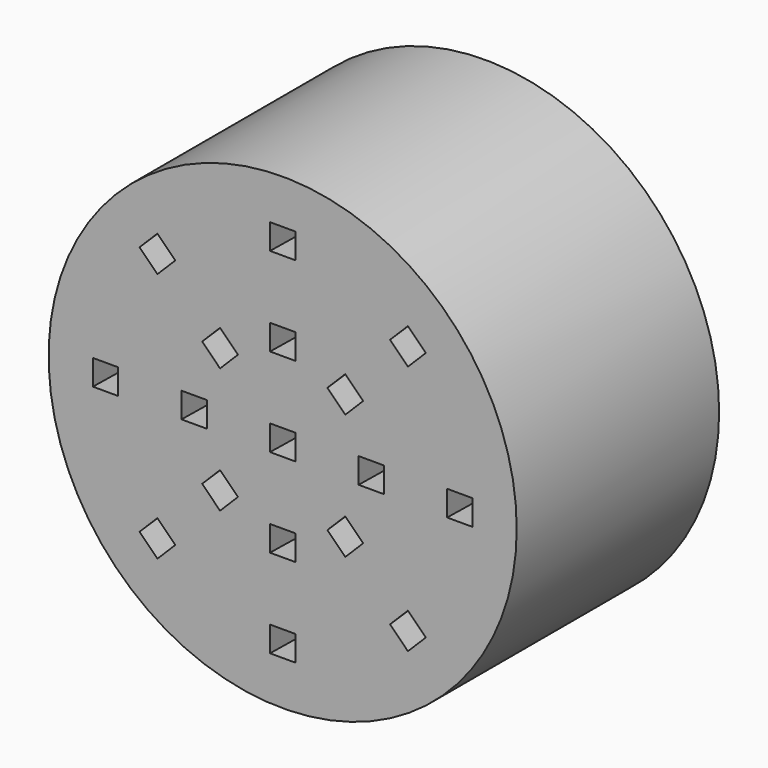
from build123d import *

# Parameters (mm, degrees)
F0_R     = 9.25
F1_DEPTH = 10
F2_W     = 1
F2_H     = 1
F3_DEPTH = 25
F3_TAPER = -5


with BuildPart() as f1:
    # F0 (on Front) → F1 (new body)
    with BuildSketch(Plane.XZ):
        Circle(F0_R)
    extrude(amount=F1_DEPTH)

    # F2 (on face) → F3 (cut)
    with BuildSketch(Plane.XZ.offset(10)):
        Rectangle(F2_W, F2_H)
        with Locations((3.5, 0)):
            Rectangle(F2_W, F2_H)
        with Locations((7, 0)):
            Rectangle(F2_W, F2_H)
        Polygon((1.767766953, 2.4748737342), (2.4748737342, 1.767766953), (3.1819805153, 2.4748737342), (2.4748737342, 3.1819805153), align=None)
        Polygon((4.9497474683, 4.2426406871), (5.6568542495, 4.9497474683), (4.9497474683, 5.6568542495), (4.2426406871, 4.9497474683), align=None)
        with Locations((0, 3.5)):
            Rectangle(F2_W, F2_H)
        with Locations((0, 7)):
            Rectangle(F2_W, F2_H)
        Polygon((-2.4748737342, 1.767766953), (-1.767766953, 2.4748737342), (-2.4748737342, 3.1819805153), (-3.1819805153, 2.4748737342), align=None)
        Polygon((-4.2426406871, 4.9497474683), (-4.9497474683, 5.6568542495), (-5.6568542495, 4.9497474683), (-4.9497474683, 4.2426406871), align=None)
        with Locations((-3.5, 0)):
            Rectangle(F2_W, F2_H)
        with Locations((-7, 0)):
            Rectangle(F2_W, F2_H)
        Polygon((-1.767766953, -2.4748737342), (-2.4748737342, -1.767766953), (-3.1819805153, -2.4748737342), (-2.4748737342, -3.1819805153), align=None)
        Polygon((-4.9497474683, -4.2426406871), (-5.6568542495, -4.9497474683), (-4.9497474683, -5.6568542495), (-4.2426406871, -4.9497474683), align=None)
        with Locations((0, -3.5)):
            Rectangle(F2_W, F2_H)
        with Locations((0, -7)):
            Rectangle(F2_W, F2_H)
        Polygon((2.4748737342, -1.767766953), (1.767766953, -2.4748737342), (2.4748737342, -3.1819805153), (3.1819805153, -2.4748737342), align=None)
        Polygon((4.2426406871, -4.9497474683), (4.9497474683, -5.6568542495), (5.6568542495, -4.9497474683), (4.9497474683, -4.2426406871), align=None)
    extrude(amount=-F3_DEPTH, taper=F3_TAPER, mode=Mode.SUBTRACT)


solid = f1.part
